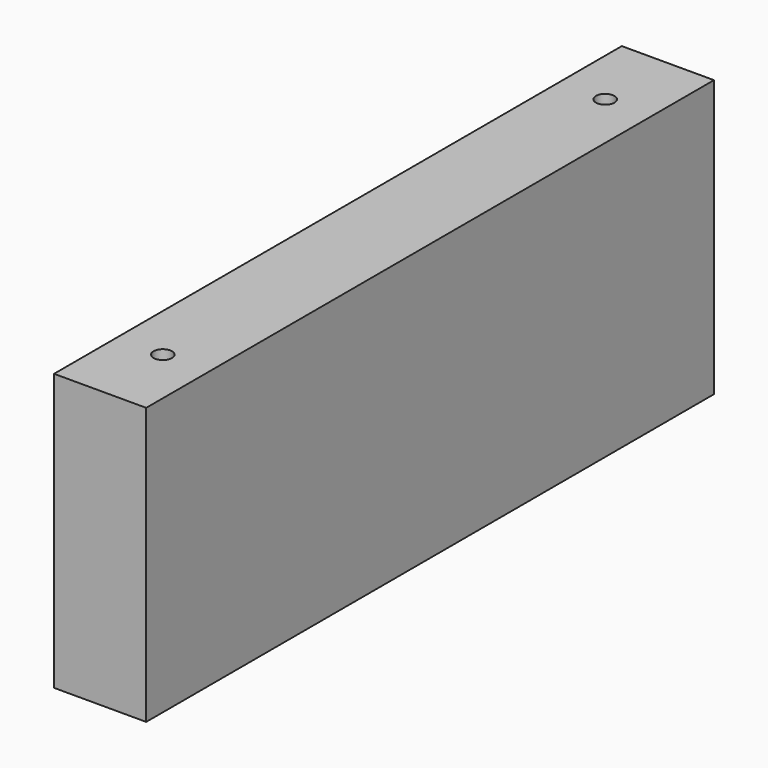
from build123d import *

# Parameters (mm, degrees)
F0_W     = 10
F0_H     = 30
F1_DEPTH = 77
F2_R     = 1
F3_DEPTH = 30.001


with BuildPart() as f1:
    # F0 (on Front) → F1 (new body)
    with BuildSketch(Plane.XZ):
        with Locations((5, 15)):
            Rectangle(F0_W, F0_H)
    extrude(amount=F1_DEPTH)

    # F2 (on face) → F3 (cut, through all)
    with BuildSketch(Plane(origin=(0, 0, 0), x_dir=(1, 0, 0), z_dir=(0, 0, -1))):
        with Locations((5, 68.5)):
            Circle(F2_R)
        with Locations((5, 8.5)):
            Circle(F2_R)
    extrude(amount=-F3_DEPTH, mode=Mode.SUBTRACT)


solid = f1.part
